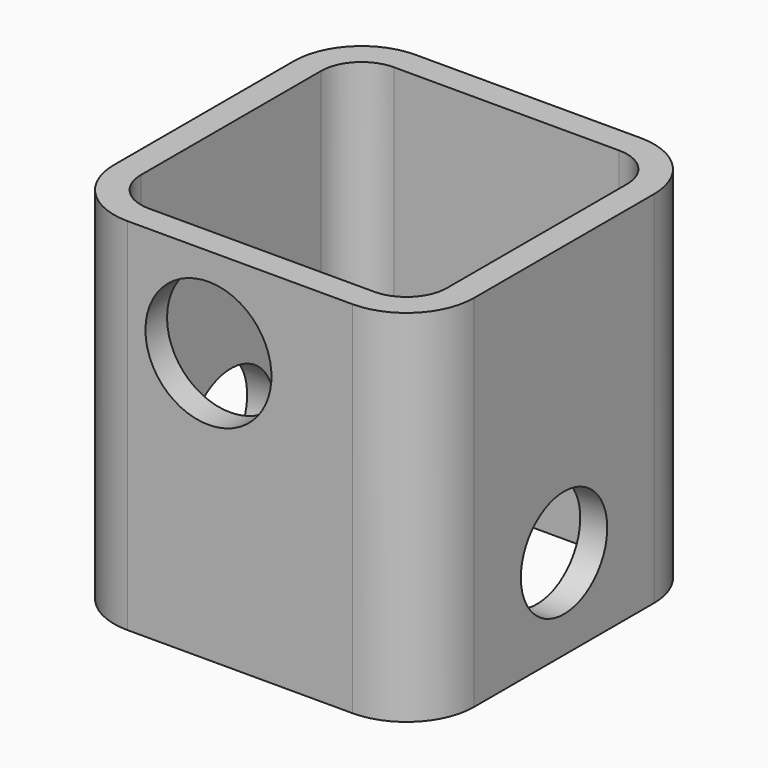
from build123d import *

# Parameters (mm, degrees)
F1_DEPTH = 40
F3_D     = 14
F3_DEPTH = 3
F3_TIP   = 4.2060243332
F5_D     = 12


with BuildPart() as f1:
    # F0 (on Top) → F1 (new body)
    with BuildSketch(Plane.XY):
        with BuildLine():
            Line((-12.5, -20), (12.5, -20))
            ThreePointArc((12.5, -20), (17.8033008589, -17.8033008589), (20, -12.5))
            Line((20, -12.5), (20, 12.5))
            ThreePointArc((20, 12.5), (17.8033008589, 17.8033008589), (12.5, 20))
            Line((12.5, 20), (-12.5, 20))
            ThreePointArc((-12.5, 20), (-17.8033008589, 17.8033008589), (-20, 12.5))
            Line((-20, 12.5), (-20, -12.5))
            ThreePointArc((-20, -12.5), (-17.8033008589, -17.8033008589), (-12.5, -20))
        make_face()
        with BuildLine():
            ThreePointArc((-12.5, -17), (-15.6819805153, -15.6819805153), (-17, -12.5))
            Line((-17, -12.5), (-17, 12.5))
            ThreePointArc((-17, 12.5), (-15.6819805153, 15.6819805153), (-12.5, 17))
            Line((-12.5, 17), (12.5, 17))
            ThreePointArc((12.5, 17), (15.6819805153, 15.6819805153), (17, 12.5))
            Line((17, 12.5), (17, -12.5))
            ThreePointArc((17, -12.5), (15.6819805153, -15.6819805153), (12.5, -17))
            Line((12.5, -17), (-12.5, -17))
        make_face(mode=Mode.SUBTRACT)
    extrude(amount=F1_DEPTH)

    # F3
    with Locations(Plane.XZ.offset(20)):
        with Locations((-3.5, 30)):
            Hole(F3_D / 2, depth=F3_DEPTH)
            with Locations((0, 0, -(F3_DEPTH + F3_TIP / 2))):  # 118° drill point
                Cone(0, F3_D / 2, F3_TIP, mode=Mode.SUBTRACT)

    # F5 (through all)
    with Locations(Plane.YZ.offset(20)):
        with Locations((0, 10)):
            Hole(F5_D / 2)


solid = f1.part
